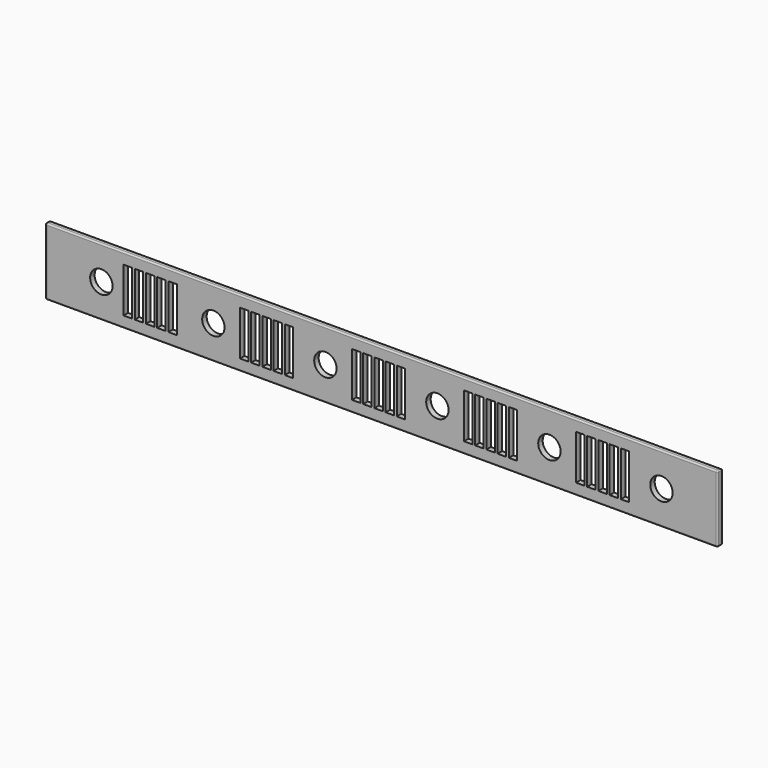
from build123d import *

# Parameters (mm, degrees)
F0_W     = 762
F0_H     = 76.2
F0_R     = 12.7
F1_DEPTH = 6.35
F2_W     = 9.525
F2_H     = 50.8
F3_DEPTH = 6.351
F4_R     = 1.6002


with BuildPart() as f1:
    # F0 (on Front) → F1 (new body)
    with BuildSketch(Plane.XZ):
        with Locations((381, 38.1)):
            Rectangle(F0_W, F0_H)
        with Locations((63.5, 38.1)):
            Circle(F0_R, mode=Mode.SUBTRACT)
        with Locations((190.5, 38.1)):
            Circle(F0_R, mode=Mode.SUBTRACT)
        with Locations((317.5, 38.1)):
            Circle(F0_R, mode=Mode.SUBTRACT)
        with Locations((444.5, 38.1)):
            Circle(F0_R, mode=Mode.SUBTRACT)
        with Locations((571.5, 38.1)):
            Circle(F0_R, mode=Mode.SUBTRACT)
        with Locations((698.5, 38.1)):
            Circle(F0_R, mode=Mode.SUBTRACT)
    extrude(amount=F1_DEPTH)

    # F2 (on face) → F3 (cut, through all)
    with BuildSketch(Plane.XZ.offset(6.35)):
        with Locations((93.4339, 38.1)):
            Rectangle(F2_W, F2_H)
        with Locations((106.1339, 38.1)):
            Rectangle(F2_W, F2_H)
        with Locations((118.8339, 38.1)):
            Rectangle(F2_W, F2_H)
        with Locations((131.5339, 38.1)):
            Rectangle(F2_W, F2_H)
        with Locations((144.2339, 38.1)):
            Rectangle(F2_W, F2_H)
        with Locations((225.4377, 38.1)):
            Rectangle(F2_W, F2_H)
        with Locations((238.1377, 38.1)):
            Rectangle(F2_W, F2_H)
        with Locations((250.8377, 38.1)):
            Rectangle(F2_W, F2_H)
        with Locations((263.5377, 38.1)):
            Rectangle(F2_W, F2_H)
        with Locations((276.2377, 38.1)):
            Rectangle(F2_W, F2_H)
        with Locations((352.4377, 38.1)):
            Rectangle(F2_W, F2_H)
        with Locations((365.1377, 38.1)):
            Rectangle(F2_W, F2_H)
        with Locations((377.8377, 38.1)):
            Rectangle(F2_W, F2_H)
        with Locations((390.5377, 38.1)):
            Rectangle(F2_W, F2_H)
        with Locations((403.2377, 38.1)):
            Rectangle(F2_W, F2_H)
        with Locations((479.4377, 38.1)):
            Rectangle(F2_W, F2_H)
        with Locations((492.1377, 38.1)):
            Rectangle(F2_W, F2_H)
        with Locations((504.8377, 38.1)):
            Rectangle(F2_W, F2_H)
        with Locations((517.5377, 38.1)):
            Rectangle(F2_W, F2_H)
        with Locations((530.2377, 38.1)):
            Rectangle(F2_W, F2_H)
        with Locations((606.4377, 38.1)):
            Rectangle(F2_W, F2_H)
        with Locations((619.1377, 38.1)):
            Rectangle(F2_W, F2_H)
        with Locations((631.8377, 38.1)):
            Rectangle(F2_W, F2_H)
        with Locations((644.5377, 38.1)):
            Rectangle(F2_W, F2_H)
        with Locations((657.2377, 38.1)):
            Rectangle(F2_W, F2_H)
    extrude(amount=-F3_DEPTH, mode=Mode.SUBTRACT)

    # F4
    f4_edges = [f1.edges().sort_by_distance(p)[0] for p in [
        (381, -6.35, 76.2),
        (381, 0, 76.2),
        (0, -6.35, 38.1),
        (0, 0, 38.1),
        (762, -3.175, 76.2),
        (0, -3.175, 76.2),
        (0, -3.175, 0),
        (381, -6.35, 0),
        (381, 0, 0),
        (762, -3.175, 0),
        (762, -6.35, 38.1),
    ]]
    fillet(f4_edges, radius=F4_R)


solid = f1.part
